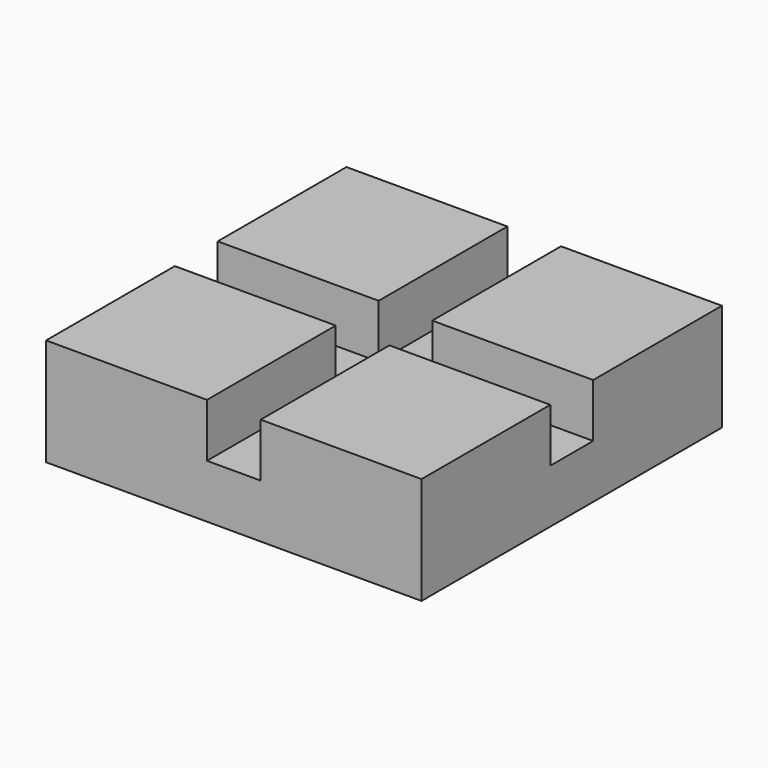
from build123d import *

# Parameters (mm, degrees)
F0_W     = 127
F0_H     = 127
F1_DEPTH = 50.8
F3_DEPTH = 25.4
F4_DEPTH = 25.4
F5_DEPTH = 25.4
F6_DEPTH = 25.4
F7_DEPTH = 25.4


with BuildPart() as f1:
    # F0 (on Top) → F1 (new body)
    with BuildSketch(Plane.XY):
        with Locations((-1.1648386717, 4.6072422095)):
            Rectangle(F0_W, F0_H)
    extrude(amount=F1_DEPTH)

    # F2 (on face) → F3 (cut)
    with BuildSketch(Plane.XY.offset(50.8)):
        Polygon((11.5351613283, 68.1072422095), (-13.8648386717, 68.1072422095), (-13.8648386717, 17.3072422095), (-64.6648386717, 17.3072422095), (-64.6648386717, -8.0927577905), (-13.8648386717, -8.0927577905), (-13.8648386717, -58.8927577905), (11.5351613283, -58.8927577905), (11.5351613283, -8.0927577905), (62.3351613283, -8.0927577905), (62.3351613283, 17.3072422095), (11.5351613283, 17.3072422095), align=None)
    extrude(amount=-F3_DEPTH, mode=Mode.SUBTRACT)

    # F4 (add): a face of the model
    f4_faces = [f1.faces().sort_by_distance(p)[0] for p in [
        (-1.1648386717, -58.8927577905, 23.9888888889),
    ]]
    extrude(f4_faces, amount=F4_DEPTH)

    # F5 (add): a face of the model
    f5_faces = [f1.faces().sort_by_distance(p)[0] for p in [
        (62.3351613283, -9.247303245, 24.2454545455),
    ]]
    extrude(f5_faces, amount=F5_DEPTH)

    # F6 (add): a face of the model
    f6_faces = [f1.faces().sort_by_distance(p)[0] for p in [
        (12.6897067829, 68.1072422095, 24.2454545455),
    ]]
    extrude(f6_faces, amount=F6_DEPTH)

    # F7 (add): a face of the model
    f7_faces = [f1.faces().sort_by_distance(p)[0] for p in [
        (-64.6648386717, 4.6072422095, 24.4230769231),
    ]]
    extrude(f7_faces, amount=F7_DEPTH)


solid = f1.part
